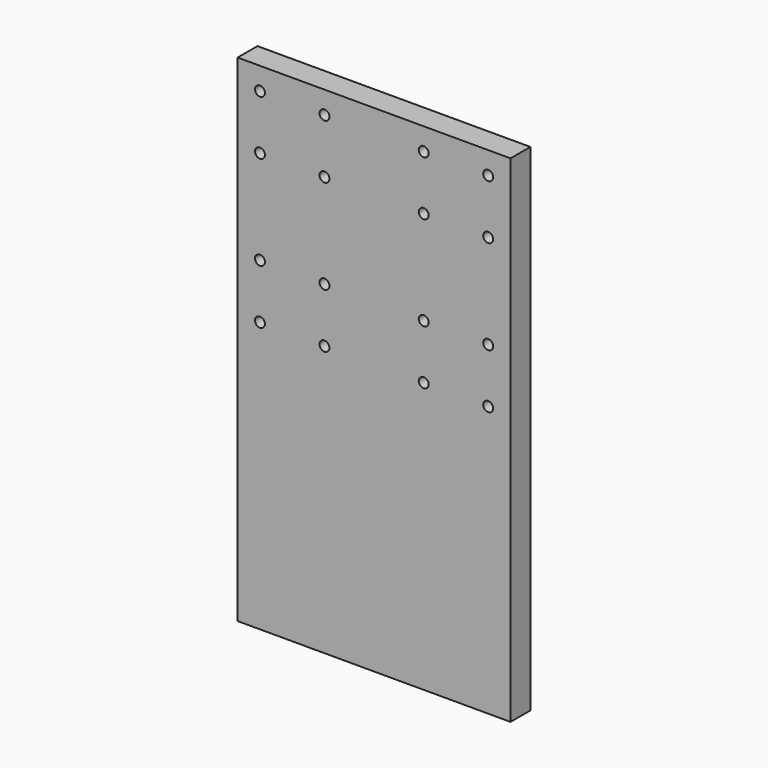
from build123d import *

# Parameters (mm, degrees)
F0_W     = 110
F0_H     = 100
F1_DEPTH = 10
F2_R     = 2
F3_DEPTH = 25
F4_W     = 110
F4_H     = 100
F5_DEPTH = 10


with BuildPart() as f1:
    # F0 (on Front) → F1 (new body)
    with BuildSketch(Plane.XZ):
        Rectangle(F0_W, F0_H)
    extrude(amount=F1_DEPTH)

    # F2 (on face) → F3 (cut)
    with BuildSketch(Plane.XZ.offset(10)):
        with Locations((-46, 41)):
            Circle(F2_R)
        with Locations((-20, 41)):
            Circle(F2_R)
        with Locations((-46, 19)):
            Circle(F2_R)
        with Locations((-20, 19)):
            Circle(F2_R)
        with Locations((46, 41)):
            Circle(F2_R)
        with Locations((20, 41)):
            Circle(F2_R)
        with Locations((20, 19)):
            Circle(F2_R)
        with Locations((46, 19)):
            Circle(F2_R)
        with Locations((-46, -19)):
            Circle(F2_R)
        with Locations((-46, -41)):
            Circle(F2_R)
        with Locations((-20, -19)):
            Circle(F2_R)
        with Locations((-20, -41)):
            Circle(F2_R)
        with Locations((20, -41)):
            Circle(F2_R)
        with Locations((46, -41)):
            Circle(F2_R)
        with Locations((46, -19)):
            Circle(F2_R)
        with Locations((20, -19)):
            Circle(F2_R)
    extrude(amount=-F3_DEPTH, mode=Mode.SUBTRACT)

    # F4 (on Front) → F5 (join)
    with BuildSketch(Plane.XZ):
        with Locations((0, -100)):
            Rectangle(F4_W, F4_H)
    extrude(amount=F5_DEPTH)


solid = f1.part
